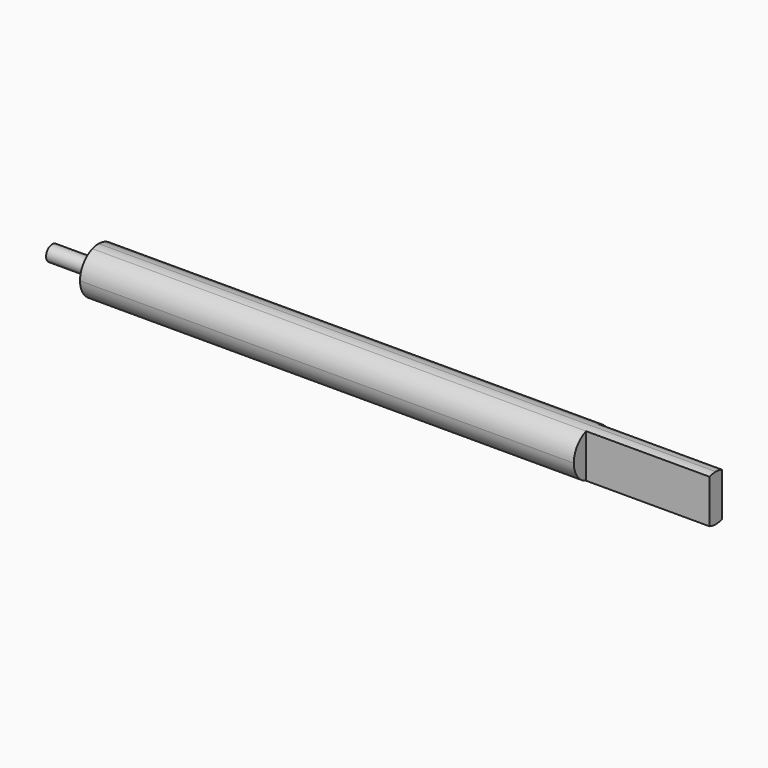
from build123d import *

# Parameters (mm, degrees)
F0_W     = 19.05
F0_H     = 3.175
F1_DEPTH = 9.525
F2_W     = 50.8
F2_H     = 6.35
F3_DEPTH = 12.7
F5_DEPTH = 273.051
F7_DEPTH = 19.05
F8_DEPTH = 19.05


with BuildPart() as f1:
    # F0 (on Top) → F1 (new body, symmetric)
    with BuildSketch(Plane.XY):
        Polygon((-127, 0), (127, 0), (127, 9.525), (-127, 9.525), (-127, 3.175), align=None)
        Polygon((-127, -3.175), (-127, -9.525), (127, -9.525), (127, 0), (-127, 0), align=None)
        with Locations((-136.525, 1.5875)):
            Rectangle(F0_W, F0_H)
        with Locations((-136.525, -1.5875)):
            Rectangle(F0_W, F0_H)
    extrude(amount=F1_DEPTH, both=True)

    # F2 (on Top) → F3 (cut, symmetric)
    with BuildSketch(Plane.XY):
        with Locations((101.6, 6.35)):
            Rectangle(F2_W, F2_H)
        with Locations((101.6, -6.35)):
            Rectangle(F2_W, F2_H)
    extrude(amount=F3_DEPTH, both=True, mode=Mode.SUBTRACT)

    # F4 (on face) → F5 (cut, through all)
    with BuildSketch(Plane.YZ.offset(127)):
        with BuildLine():
            ThreePointArc((-9.525, 0), (-7.77713, 5.499261), (-3.175, 8.980256))
            Line((-3.175, 8.980256), (-3.175, 9.525))
            Line((-3.175, 9.525), (-9.525, 9.525))
            Line((-9.525, 9.525), (-9.525, 0))
        make_face()
        with BuildLine():
            Line((-3.175, -9.525), (-3.175, -8.980256))
            ThreePointArc((-3.175, -8.980256), (-7.77713, -5.499261), (-9.525, 0))
            Line((-9.525, 0), (-9.525, -9.525))
            Line((-9.525, -9.525), (-3.175, -9.525))
        make_face()
        with BuildLine():
            Line((9.525, -9.525), (9.525, 0))
            ThreePointArc((9.525, 0), (7.77713, -5.499261), (3.175, -8.980256))
            Line((3.175, -8.980256), (3.175, -9.525))
            Line((3.175, -9.525), (9.525, -9.525))
        make_face()
        with BuildLine():
            ThreePointArc((3.175, 8.980256), (7.77713, 5.499261), (9.525, 0))
            Line((9.525, 0), (9.525, 9.525))
            Line((9.525, 9.525), (3.175, 9.525))
            Line((3.175, 9.525), (3.175, 8.980256))
        make_face()
        with BuildLine():
            ThreePointArc((0, 9.525), (1.610696, 9.387826), (3.175, 8.980256))
            Line((3.175, 8.980256), (3.175, 9.525))
            Line((3.175, 9.525), (0, 9.525))
        make_face()
        with BuildLine():
            ThreePointArc((-3.175, 8.980256), (-1.610696, 9.387826), (0, 9.525))
            Line((0, 9.525), (-3.175, 9.525))
            Line((-3.175, 9.525), (-3.175, 8.980256))
        make_face()
        with BuildLine():
            Line((-3.175, -9.525), (0, -9.525))
            ThreePointArc((0, -9.525), (-1.610696, -9.387826), (-3.175, -8.980256))
            Line((-3.175, -8.980256), (-3.175, -9.525))
        make_face()
        with BuildLine():
            Line((3.175, -9.525), (3.175, -8.980256))
            ThreePointArc((3.175, -8.980256), (1.610696, -9.387826), (0, -9.525))
            Line((0, -9.525), (3.175, -9.525))
        make_face()
    extrude(amount=-F5_DEPTH, mode=Mode.SUBTRACT)

    # F6 (on face) → F7 (cut)
    with BuildSketch(Plane(origin=(-146.05, 0, 0), x_dir=(0, -1, 0), z_dir=(-1, 0, 0))):
        with BuildLine():
            ThreePointArc((-3.175, 0), (0, 3.175), (3.175, 0))
            Line((3.175, 0), (3.175, 8.980256))
            ThreePointArc((3.175, 8.980256), (1.610696, 9.387826), (0, 9.525))
            ThreePointArc((0, 9.525), (-1.610696, 9.387826), (-3.175, 8.980256))
            Line((-3.175, 8.980256), (-3.175, 0))
        make_face()
    extrude(amount=-F7_DEPTH, mode=Mode.SUBTRACT)

    # F6 (on face) → F8 (cut)
    with BuildSketch(Plane(origin=(-146.05, 0, 0), x_dir=(0, -1, 0), z_dir=(-1, 0, 0))):
        with BuildLine():
            Line((3.175, -8.980256), (3.175, 0))
            ThreePointArc((3.175, 0), (0, -3.175), (-3.175, 0))
            Line((-3.175, 0), (-3.175, -8.980256))
            ThreePointArc((-3.175, -8.980256), (-1.610696, -9.387826), (0, -9.525))
            ThreePointArc((0, -9.525), (1.610696, -9.387826), (3.175, -8.980256))
        make_face()
    extrude(amount=-F8_DEPTH, mode=Mode.SUBTRACT)


solid = f1.part
